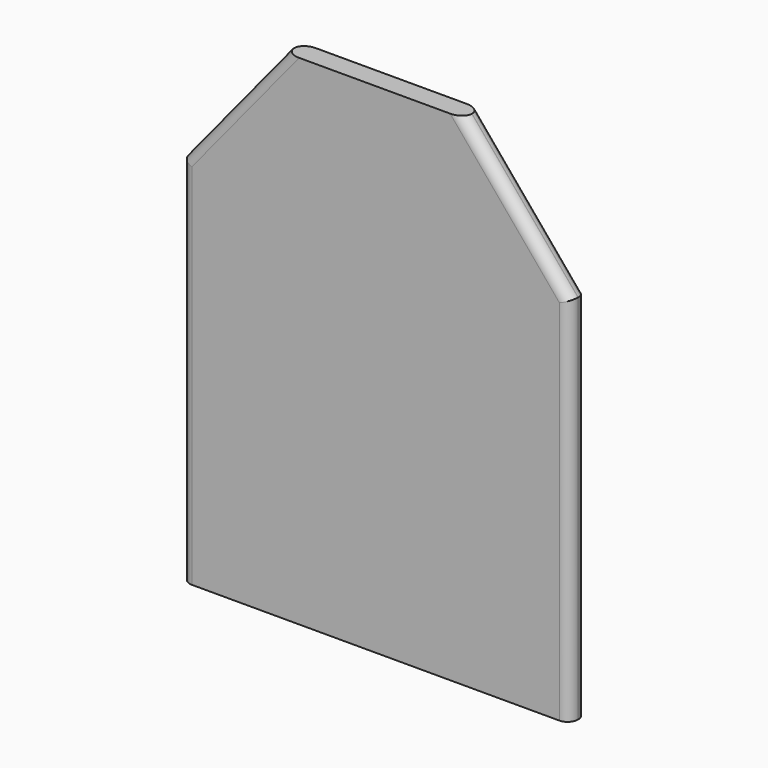
from build123d import *

# Parameters (mm, degrees)
F1_DEPTH = 6.35
F2_R     = 3.1242


with BuildPart() as f1:
    # F0 (on Front) → F1 (new body)
    with BuildSketch(Plane.XZ):
        Polygon((30.947542, 88.527893), (-22.852458, 88.527893), (-54.426566, 50.028343), (-54.426566, -62.472107), (63.073434, -62.472107), (63.073434, 50.028343), align=None)
    extrude(amount=F1_DEPTH)

    # F2
    f2_edges = [f1.edges().sort_by_distance(p)[0] for p in [
        (-54.426566, 0, -6.221882),
        (-38.639512, 0, 69.278118),
        (47.010488, 0, 69.278118),
        (63.073434, 0, -6.221882),
        (47.010488, -6.35, 69.278118),
        (-38.639512, -6.35, 69.278118),
        (-54.426566, -6.35, -6.221882),
        (63.073434, -6.35, -6.221882),
    ]]
    fillet(f2_edges, radius=F2_R)


solid = f1.part
